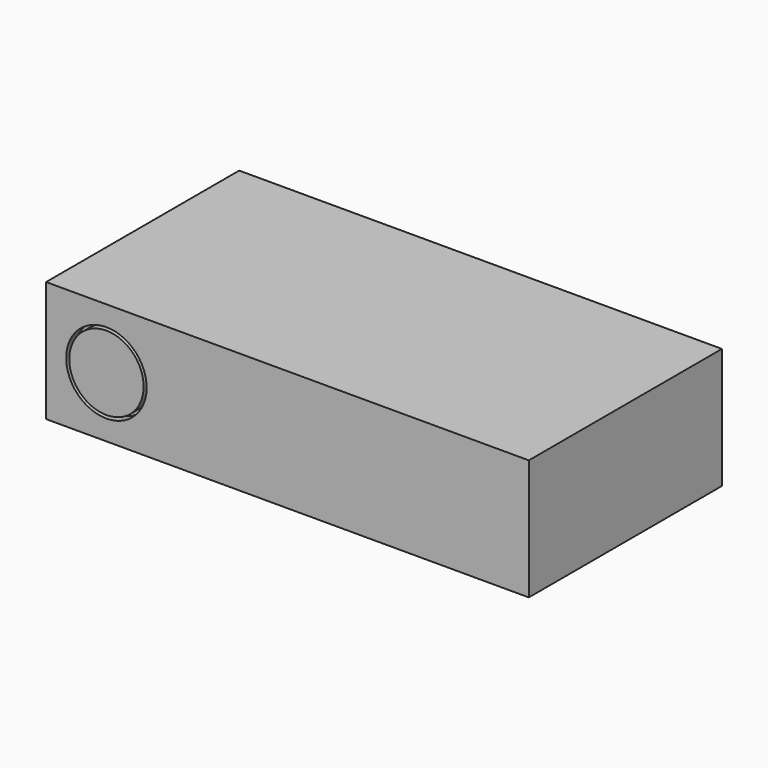
from build123d import *

# Parameters (mm, degrees)
F0_W     = 152.4
F0_H     = 38.1
F1_DEPTH = 76.2
F2_R     = 12.7
F2_R_2   = 11.736603
F3_DEPTH = 3.175


with BuildPart() as f1:
    # F0 (on Front) → F1 (new body)
    with BuildSketch(Plane.XZ):
        Rectangle(F0_W, F0_H)
    extrude(amount=F1_DEPTH)

    # F2 (on face) → F3 (cut)
    with BuildSketch(Plane.XZ.offset(76.2)):
        with Locations((-57.15, 0)):
            Circle(F2_R)
        with Locations((-57.15, 0)):
            Circle(F2_R_2, mode=Mode.SUBTRACT)
    extrude(amount=-F3_DEPTH, mode=Mode.SUBTRACT)


solid = f1.part
